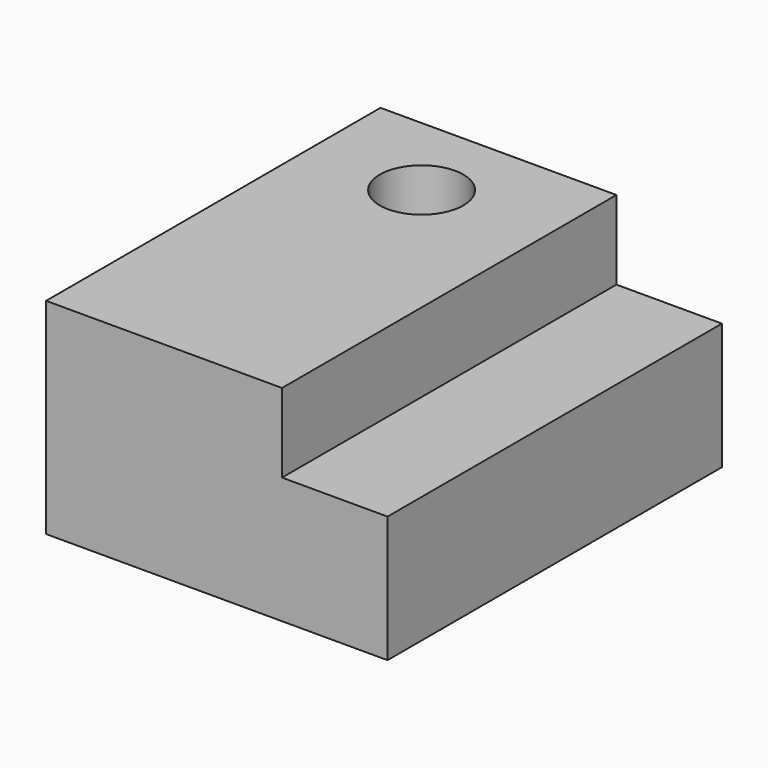
from build123d import *

# Parameters (mm, degrees)
F1_DEPTH = 127
F2_R     = 12.7
F3_DEPTH = 62.393121


with BuildPart() as f1:
    # F0 (on Front) → F1 (new body)
    with BuildSketch(Plane.XZ):
        Polygon((0, 62.393121), (0, 0), (103.743859, 0), (103.743859, 38.414586), (71.690917, 38.414586), (71.690917, 62.393121), align=None)
    extrude(amount=-F1_DEPTH)

    # F2 (on face) → F3 (cut, through all)
    with BuildSketch(Plane.XY.offset(62.393121)):
        with Locations((33.998717, 100.108631)):
            Circle(F2_R)
    extrude(amount=-F3_DEPTH, mode=Mode.SUBTRACT)


solid = f1.part
